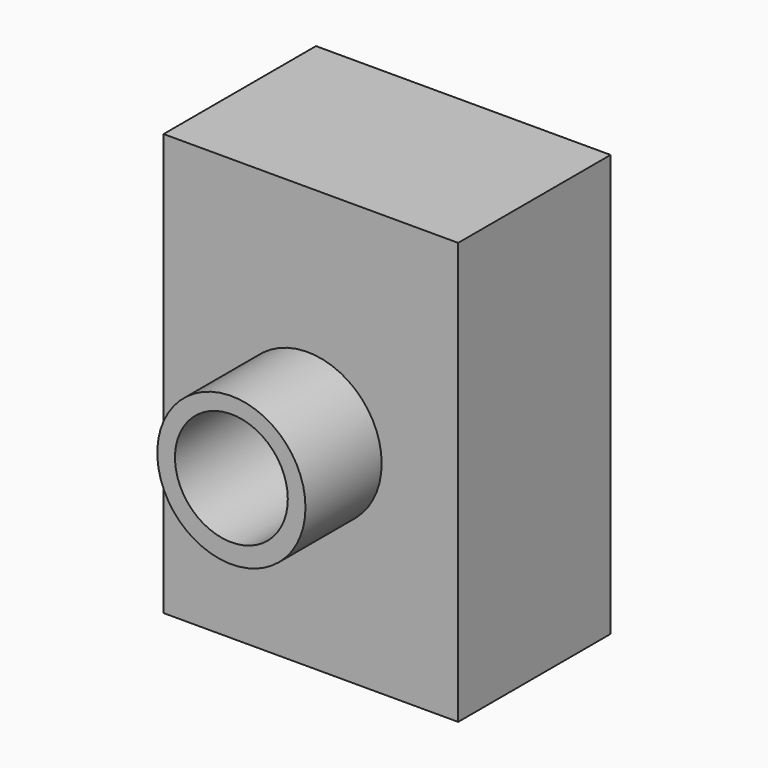
from build123d import *

# Parameters (mm, degrees)
F0_W     = 39.285619
F0_H     = 56.238633
F1_DEPTH = 25.4
F2_R     = 9.880036
F3_DEPTH = 12.7
F5_R     = 7.52441
F6_DEPTH = 38.101


with BuildPart() as f1:
    # F0 (on Front) → F1 (new body)
    with BuildSketch(Plane.XZ):
        with Locations((-9.948956, 21.362619)):
            Rectangle(F0_W, F0_H)
    extrude(amount=F1_DEPTH)

    # F2 (on face) → F3 (join)
    with BuildSketch(Plane.XZ.offset(25.4)):
        with Locations((-10.390805, 20.258)):
            Circle(F2_R)
    extrude(amount=F3_DEPTH)

    # F5 (on face) → F6 (cut, through all)
    with BuildSketch(Plane.XZ.offset(38.1)):
        with Locations((-10.390805, 20.478925)):
            Circle(F5_R)
    extrude(amount=-F6_DEPTH, mode=Mode.SUBTRACT)


solid = f1.part
